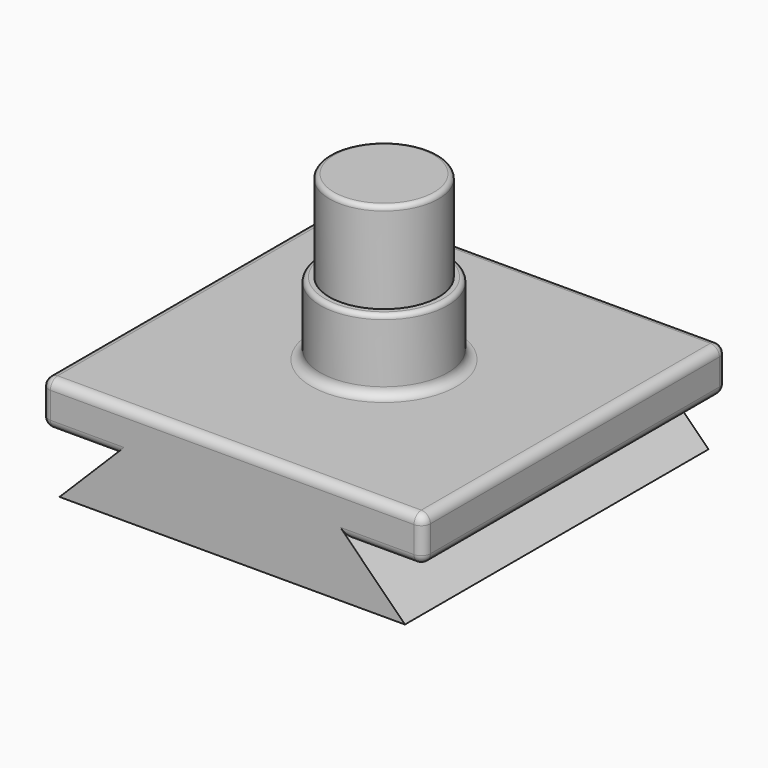
from build123d import *

# Parameters (mm, degrees)
F1_DEPTH = 20.87
F2_W     = 6
F2_H     = 8
F2_W_2   = 1
F2_H_2   = 10
F4_R     = 0.5
F5_R     = 1


with BuildPart() as f1:
    # F0 (on Front) → F1 (new body, symmetric)
    with BuildSketch(Plane.XZ):
        Polygon((-21, 6.1), (-12.9, 6.1), (0, 6.1), (0, 11), (-6, 11), (-7, 11), (-21, 11), align=None)
        Polygon((0, 11), (0, 6.1), (12.9, 6.1), (21, 6.1), (21, 11), (7, 11), (6, 11), align=None)
        Polygon((-12.9, 6.1), (-19, 0), (0, 0), (19, 0), (12.9, 6.1), (0, 6.1), align=None)
    extrude(amount=F1_DEPTH, both=True)

    # F2 (on Front) → F3 (revolve)
    with BuildSketch(Plane.XZ):
        with Locations((-3, 15)):
            Rectangle(F2_W, F2_H)
        with Locations((-6.5, 15)):
            Rectangle(F2_W_2, F2_H)
        with Locations((-3, 24)):
            Rectangle(F2_W, F2_H_2)
    revolve(axis=Axis((0, 0, 20), (0, 0, -1)))

    # F4
    f4_edges = [f1.edges().sort_by_distance(p)[0] for p in [
        (6, 0, 29),
        (7, 0, 19),
    ]]
    fillet(f4_edges, radius=F4_R)

    # F5
    f5_edges = [f1.edges().sort_by_distance(p)[0] for p in [
        (-21, 0, 11),
        (0, -20.87, 11),
        (0, 20.87, 11),
        (21, 0, 11),
        (7, 0, 11),
        (-21, 20.87, 8.55),
        (-21, 0, 6.1),
        (-21, -20.87, 8.55),
        (21, 0, 6.1),
        (21, 20.87, 8.55),
        (21, -20.87, 8.55),
        (16.95, 20.87, 6.1),
        (-16.95, 20.87, 6.1),
        (-16.95, -20.87, 6.1),
        (16.95, -20.87, 6.1),
    ]]
    fillet(f5_edges, radius=F5_R)


solid = f1.part
